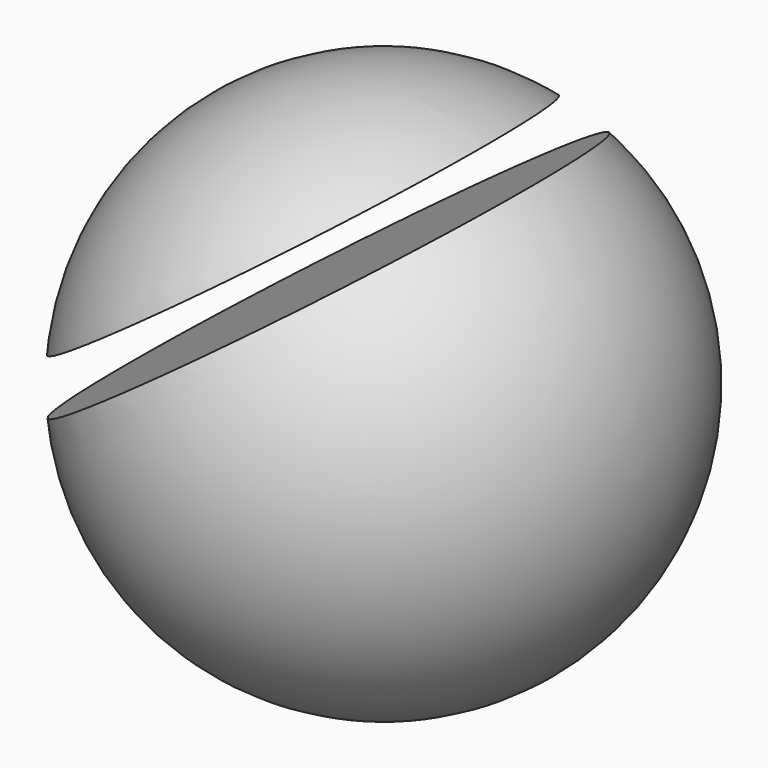
from build123d import *

# Parameters (mm, degrees)
F3_DEPTH      = 25.4
F3_DEPTH_BACK = 25.4


with BuildPart() as f1:
    # F0 (on Front) → F1 (revolve)
    with BuildSketch(Plane.XZ):
        with BuildLine():
            Line((-50.8, 50.8), (-50.8, 0))
            ThreePointArc((-50.8, 0), (-25.4, 25.4), (-50.8, 50.8))
        make_face()
    revolve(axis=Axis((-50.8, 0, 25.4), (0, 0, 1)))

    # F2 (on Front) → F3 (cut, two sides)
    with BuildSketch(Plane.XZ) as f3_sk:
        Polygon((-27.198119, 58.62119), (-82.122475, 19.540397), (-79.399142, 16.282925), (-24.744002, 55.172161), align=None)
    extrude(amount=F3_DEPTH, mode=Mode.SUBTRACT)
    extrude(f3_sk.sketch, amount=-F3_DEPTH_BACK, mode=Mode.SUBTRACT)


solid = f1.part
